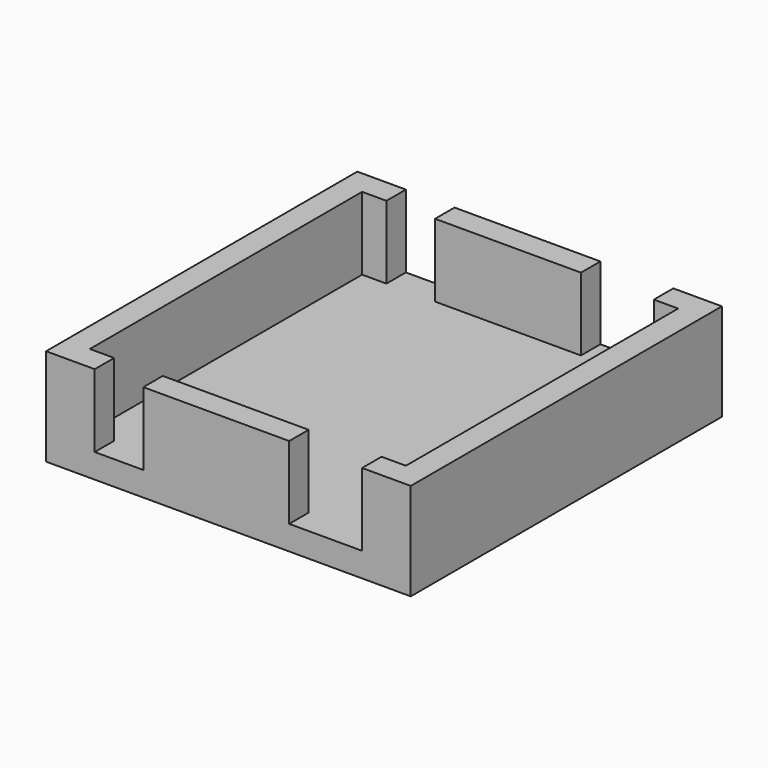
from build123d import *

# Parameters (mm, degrees)
F0_W      = 150
F0_H      = 160
F1_DEPTH  = 10
F2_W      = 150
F2_H      = 160
F2_W_2    = 130
F2_H_2    = 140
F3_DEPTH  = 30
F4_W      = 20
F4_H      = 10
F5_DEPTH  = 30
F6_W      = 30
F6_H      = 10
F7_DEPTH  = 30
F8_W      = 20
F8_H      = 10
F9_DEPTH  = 30
F10_W     = 30
F10_H     = 10
F11_DEPTH = 30


with BuildPart() as f1:
    # F0 (on Top) → F1 (new body)
    with BuildSketch(Plane.XY):
        Rectangle(F0_W, F0_H)
    extrude(amount=F1_DEPTH)

    # F2 (on face) → F3 (join)
    with BuildSketch(Plane.XY.offset(10)):
        Rectangle(F2_W, F2_H)
        Rectangle(F2_W_2, F2_H_2, mode=Mode.SUBTRACT)
    extrude(amount=F3_DEPTH)

    # F4 (on face) → F5 (cut)
    with BuildSketch(Plane.XY.offset(40)):
        with Locations((-45, 75)):
            Rectangle(F4_W, F4_H)
    extrude(amount=-F5_DEPTH, mode=Mode.SUBTRACT)

    # F6 (on face) → F7 (cut)
    with BuildSketch(Plane.XY.offset(40)):
        with Locations((40, 75)):
            Rectangle(F6_W, F6_H)
    extrude(amount=-F7_DEPTH, mode=Mode.SUBTRACT)

    # F8 (on face) → F9 (cut)
    with BuildSketch(Plane.XY.offset(40)):
        with Locations((-45, -75)):
            Rectangle(F8_W, F8_H)
    extrude(amount=-F9_DEPTH, mode=Mode.SUBTRACT)

    # F10 (on face) → F11 (cut)
    with BuildSketch(Plane.XY.offset(40)):
        with Locations((40, -75)):
            Rectangle(F10_W, F10_H)
    extrude(amount=-F11_DEPTH, mode=Mode.SUBTRACT)


solid = f1.part
